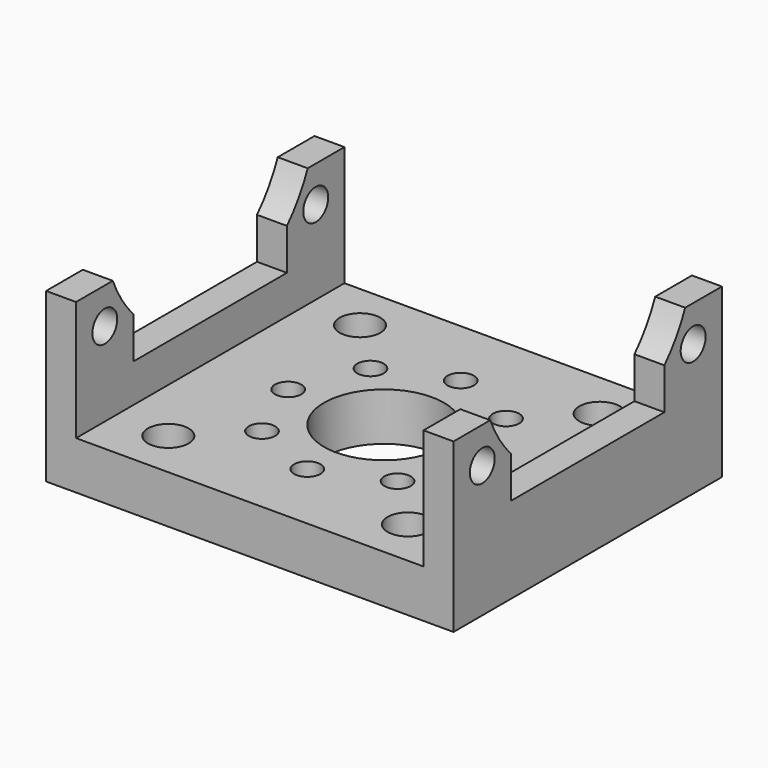
from build123d import *

# Parameters (mm, degrees)
SKETCH_W        = 34
SKETCH_H        = 28
PAD_DEPTH       = 4
SKETCH001_W     = 2.5
SKETCH001_H     = 28
PAD001_DEPTH    = 10
SKETCH002_R     = 1.3
POCKET_DEPTH    = 100
POCKET003_DEPTH = 100
SKETCH004_R     = 1.1
SKETCH004_R_2   = 5
POCKET007_DEPTH = 5
SKETCH008_R     = 1.7
POCKET009_DEPTH = 10


with BuildPart() as part:
    # Sketch → Pad (new body)
    with BuildSketch(Plane.XY):
        Rectangle(SKETCH_W, SKETCH_H)
    extrude(amount=PAD_DEPTH)

    # Sketch001 (on Face6 of Pad) → Pad001 (join)
    with BuildSketch(Plane.XY.offset(4)):
        with Locations((15.75, 0)):
            Rectangle(SKETCH001_W, SKETCH001_H)
        with Locations((-15.75, 0)):
            Rectangle(SKETCH001_W, SKETCH001_H)
    extrude(amount=PAD001_DEPTH)

    # Sketch002 (on Face13 of Pad001) → Pocket (cut)
    with BuildSketch(Plane.YZ.offset(17)):
        with Locations((-11, 11)):
            Circle(SKETCH002_R)
        with Locations((11, 11)):
            Circle(SKETCH002_R)
    extrude(amount=-POCKET_DEPTH, mode=Mode.SUBTRACT)

    # Sketch006 → Pocket003 (cut)
    with BuildSketch(Plane(origin=(-20, 0, 0), x_dir=(0, -1, 0), z_dir=(-1, 0, 0))):
        with BuildLine():
            ThreePointArc((8, 10.650166), (0, 29.2), (-8, 10.650166))
            Line((-8, 10.650166), (-8, 7.2))
            Line((-8, 7.2), (8, 7.2))
            Line((8, 7.2), (8, 10.650166))
        make_face()
    extrude(amount=-POCKET003_DEPTH, mode=Mode.SUBTRACT)

    # Sketch004 → Pocket007 (cut)
    with BuildSketch(Plane.XY.offset(4)):
        with Locations((0, 8)):
            Circle(SKETCH004_R)
        with Locations((8, 0)):
            Circle(SKETCH004_R)
        with Locations((0, -8)):
            Circle(SKETCH004_R)
        with Locations((-8, 0)):
            Circle(SKETCH004_R)
        Circle(SKETCH004_R_2)
        with Locations((5.656854, 5.656854)):
            Circle(SKETCH004_R)
        with Locations((-5.656854, 5.656854)):
            Circle(SKETCH004_R)
        with Locations((-5.656854, -5.656854)):
            Circle(SKETCH004_R)
        with Locations((5.656854, -5.656854)):
            Circle(SKETCH004_R)
    extrude(amount=-POCKET007_DEPTH, mode=Mode.SUBTRACT)

    # Sketch008 → Pocket009 (cut)
    with BuildSketch(Plane(origin=(0, 0, 0), x_dir=(1, 0, 0), z_dir=(0, 0, -1))):
        with Locations((10, 10)):
            Circle(SKETCH008_R)
        with Locations((-10, 10)):
            Circle(SKETCH008_R)
        with Locations((-10, -10)):
            Circle(SKETCH008_R)
        with Locations((10, -10)):
            Circle(SKETCH008_R)
    extrude(amount=-POCKET009_DEPTH, mode=Mode.SUBTRACT)


solid = part.part
